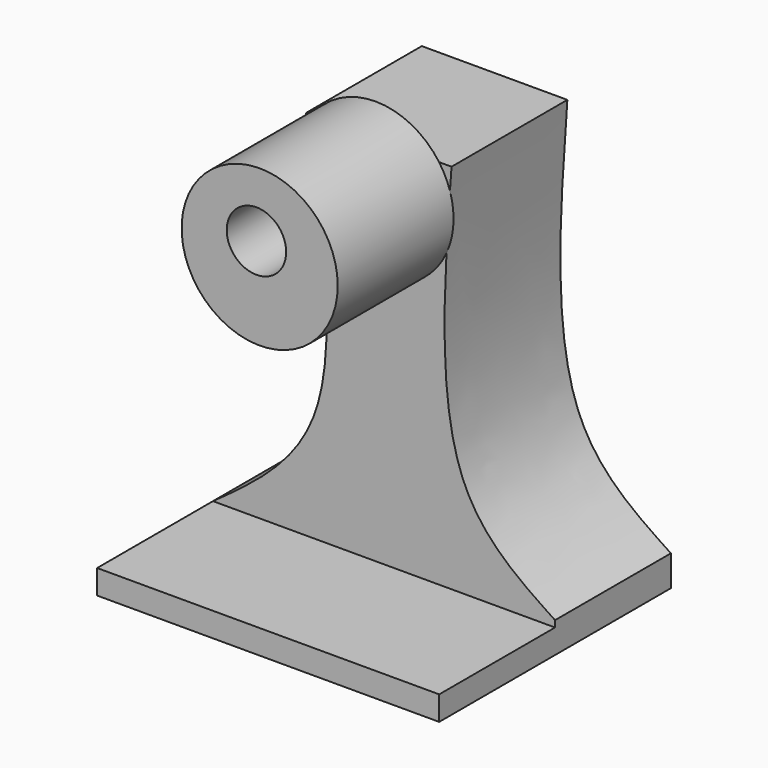
from build123d import *

# Parameters (mm, degrees)
F0_W     = 60.0074976683
F0_H     = 69.5122331381
F1_DEPTH = 50.8
F3_DEPTH = 50.8
F5_DEPTH = 25.4
F6_R     = 13.6924053839
F7_DEPTH = 25.4
F8_R     = 5.2161873837
F9_DEPTH = 50.8


with BuildPart() as f1:
    # F0 (on Front) → F1 (new body)
    with BuildSketch(Plane.XZ):
        with Locations((30.0037488341, 34.756116569)):
            Rectangle(F0_W, F0_H)
    extrude(amount=F1_DEPTH)

    # F2 (on face) → F3 (cut)
    with BuildSketch(Plane.XZ.offset(50.8)):
        with BuildLine():
            Line((60.0074976683, 69.5122331381), (41.8492034078, 69.5122331381))
            add(Edge.make_bspline(
                [(41.8492034078, 69.5122331381), (40.5229985665, 50.963393388), (38.2921086092, 19.7612600302), (53.7421113163, 9.5369669805), (60.0074976683, 5.3907446563)],
                knots=[0, 0, 0, 0, 0.5944734463, 1, 1, 1, 1], degree=3))
            Line((60.0074976683, 5.3907446563), (60.0074976683, 69.5122331381))
        make_face()
        with BuildLine():
            add(Edge.make_bspline(
                [(16.3140948862, 69.5122331381), (19.1757238105, 52.1069225067), (24.1823454085, 21.6551041788), (7.2530413082, 9.4744311002), (0, 4.255851265)],
                knots=[0, 0, 0, 0, 0.571568845, 1, 1, 1, 1], degree=3))
            Line((16.3140948862, 69.5122331381), (0, 69.5122331381))
            Line((0, 69.5122331381), (0, 4.255851265))
        make_face()
    extrude(amount=-F3_DEPTH, mode=Mode.SUBTRACT)

    # F4 (on face) → F5 (cut)
    with BuildSketch(Plane.XZ.offset(50.8)):
        with BuildLine():
            add(Edge.make_bspline(
                [(16.3140948862, 69.5122331381), (19.1757238105, 52.1069225067), (24.1823454085, 21.6551041788), (7.2530413082, 9.4744311002), (0, 4.255851265)],
                knots=[0, 0, 0, 0, 0.571568845, 1, 1, 1, 1], degree=3))
            Line((0, 4.255851265), (60.0074976683, 4.255851265))
            Line((60.0074976683, 4.255851265), (60.0074976683, 5.3907446563))
            add(Edge.make_bspline(
                [(41.8492034078, 69.5122331381), (40.5229985665, 50.963393388), (38.2921086092, 19.7612600302), (53.7421113163, 9.5369669805), (60.0074976683, 5.3907446563)],
                knots=[0, 0, 0, 0, 0.5944734463, 1, 1, 1, 1], degree=3))
            Line((41.8492034078, 69.5122331381), (16.3140948862, 69.5122331381))
        make_face()
    extrude(amount=-F5_DEPTH, mode=Mode.SUBTRACT)

    # F6 (on face) → F7 (join)
    with BuildSketch(Plane.XZ.offset(25.4)):
        with Locations((28.5142045468, 61.5679770708)):
            Circle(F6_R)
    extrude(amount=F7_DEPTH)

    # F8 (on face) → F9 (cut)
    with BuildSketch(Plane.XZ.offset(50.8)):
        with Locations((27.9467590153, 63.8377666473)):
            Circle(F8_R)
    extrude(amount=-F9_DEPTH, mode=Mode.SUBTRACT)


solid = f1.part
